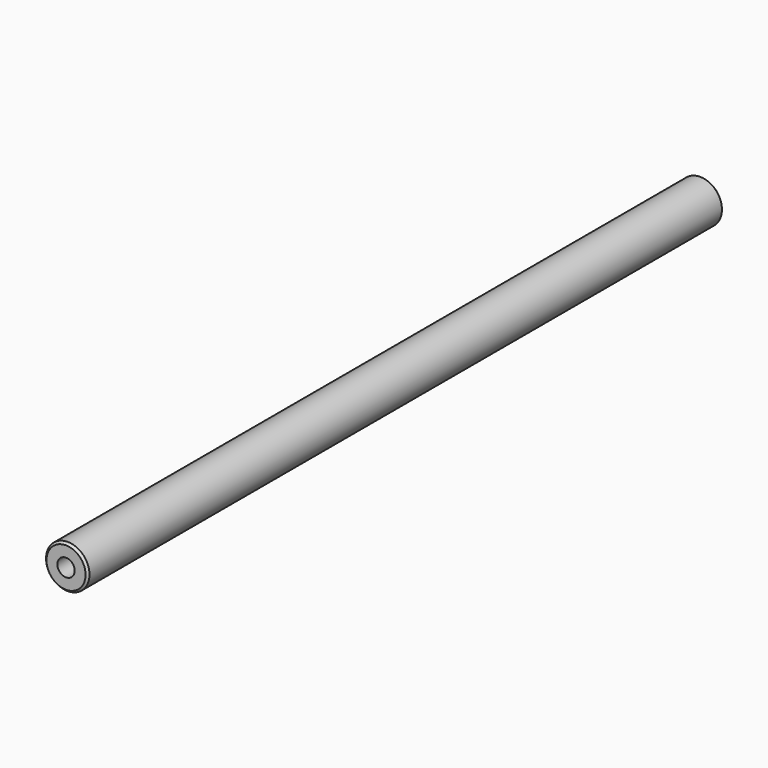
from build123d import *

# Parameters (mm, degrees)
F0_R     = 10
F1_DEPTH = 366
F2_SIZE  = 1
F3_R     = 4
F4_DEPTH = 25
F5_R     = 4
F6_DEPTH = 25


with BuildPart() as f1:
    # F0 (on Front) → F1 (new body)
    with BuildSketch(Plane.XZ):
        Circle(F0_R)
    extrude(amount=F1_DEPTH)

    # F2
    f2_edges = [f1.edges().sort_by_distance(p)[0] for p in [
        (-10, -366, 0),
        (-10, 0, 0),
    ]]
    chamfer(f2_edges, length=F2_SIZE)

    # F3 (on face) → F4 (cut)
    with BuildSketch(Plane.XZ.offset(366)):
        Circle(F3_R)
    extrude(amount=-F4_DEPTH, mode=Mode.SUBTRACT)

    # F5 (on face) → F6 (cut)
    with BuildSketch(Plane(origin=(0, 0, 0), x_dir=(-1, 0, 0), z_dir=(0, 1, 0))):
        Circle(F5_R)
    extrude(amount=-F6_DEPTH, mode=Mode.SUBTRACT)


solid = f1.part
